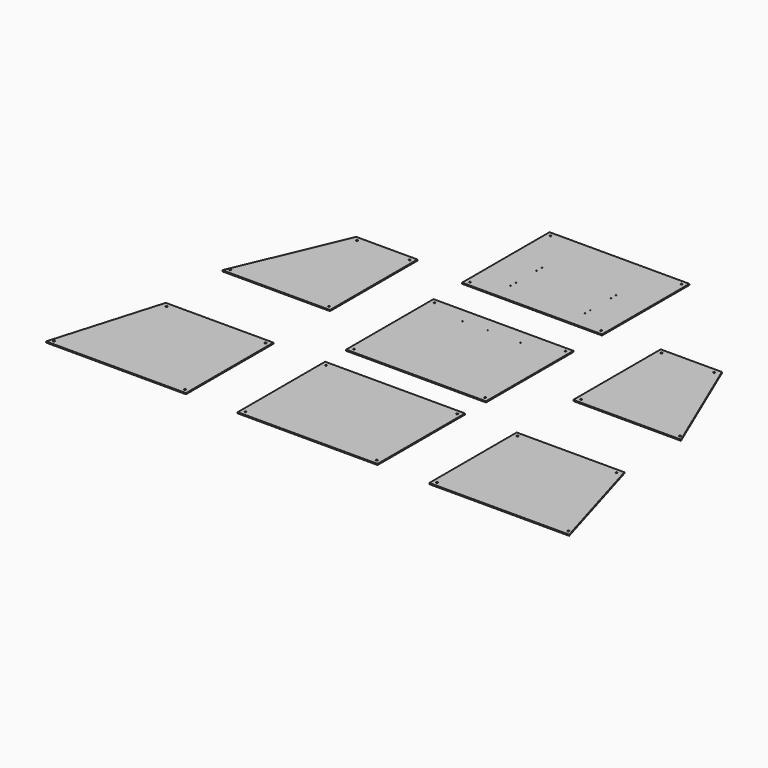
from build123d import *

# Parameters (mm, degrees)
F0_W     = 640
F0_H     = 500
F0_R     = 4
F1_DEPTH = 5
F2_R     = 4
F3_DEPTH = 5
F5_W     = 640
F5_H     = 500
F5_R     = 4
F5_R_2   = 2.05
F6_DEPTH = 5
F7_W     = 640
F7_H     = 500
F7_R     = 4
F7_R_2   = 2.05
F8_DEPTH = 5


with BuildPart() as f1:
    # F0 (on Top) → F1 (new body)
    with BuildSketch(Plane.XY):
        Rectangle(F0_W, F0_H)
        with Locations((-300, -230)):
            Circle(F0_R, mode=Mode.SUBTRACT)
        with Locations((300, -230)):
            Circle(F0_R, mode=Mode.SUBTRACT)
        with Locations((-300, 230)):
            Circle(F0_R, mode=Mode.SUBTRACT)
        with Locations((300, 230)):
            Circle(F0_R, mode=Mode.SUBTRACT)
    extrude(amount=F1_DEPTH)


with BuildPart() as f3:
    # F2 (on Top) → F3 (new body)
    with BuildSketch(Plane.XY):
        Polygon((-556.44248, -250), (-556.44248, 250), (-1048.94248, 250), (-1196.44248, -250), align=None)
        with Locations((-1176.44248, -230)):
            Circle(F2_R, mode=Mode.SUBTRACT)
        with Locations((-1028.94248, 230)):
            Circle(F2_R, mode=Mode.SUBTRACT)
        with Locations((-576.44248, -230)):
            Circle(F2_R, mode=Mode.SUBTRACT)
        with Locations((-576.44248, 230)):
            Circle(F2_R, mode=Mode.SUBTRACT)
        Polygon((-1048.94248, 573.430896), (-556.44248, 573.430896), (-556.44248, 1073.430896), (-836.44248, 1073.430896), align=None)
        with Locations((-1028.94248, 593.430896)):
            Circle(F2_R, mode=Mode.SUBTRACT)
        with Locations((-576.44248, 593.430896)):
            Circle(F2_R, mode=Mode.SUBTRACT)
        with Locations((-816.44248, 1053.430896)):
            Circle(F2_R, mode=Mode.SUBTRACT)
        with Locations((-576.44248, 1053.430896)):
            Circle(F2_R, mode=Mode.SUBTRACT)
    extrude(amount=F3_DEPTH)


with BuildPart() as f4_1:
    # F4: instance of F3
    add(f3.part.mirror(Plane.YZ))


with BuildPart() as f6:
    # F5 (on Top) → F6 (new body)
    with BuildSketch(Plane.XY):
        with Locations((0, 619.901973)):
            Rectangle(F5_W, F5_H)
        with Locations((-300, 389.901973)):
            Circle(F5_R, mode=Mode.SUBTRACT)
        with Locations((300, 389.901973)):
            Circle(F5_R, mode=Mode.SUBTRACT)
        with Locations((-300, 849.901973)):
            Circle(F5_R, mode=Mode.SUBTRACT)
        with Locations((-132.5, 801.401973)):
            Circle(F5_R_2, mode=Mode.SUBTRACT)
        with Locations((-17.5, 801.401973)):
            Circle(F5_R_2, mode=Mode.SUBTRACT)
        with Locations((132.5, 801.401973)):
            Circle(F5_R_2, mode=Mode.SUBTRACT)
        with Locations((300, 849.901973)):
            Circle(F5_R, mode=Mode.SUBTRACT)
    extrude(amount=F6_DEPTH)


with BuildPart() as f8:
    # F7 (on Top) → F8 (new body)
    with BuildSketch(Plane.XY):
        with Locations((0, 1283.270836)):
            Rectangle(F7_W, F7_H)
        with Locations((-300, 1053.270836)):
            Circle(F7_R, mode=Mode.SUBTRACT)
        with Locations((-170, 1123.770836)):
            Circle(F7_R_2, mode=Mode.SUBTRACT)
        with Locations((-170, 1153.770836)):
            Circle(F7_R_2, mode=Mode.SUBTRACT)
        with Locations((-170, 1271.770836)):
            Circle(F7_R_2, mode=Mode.SUBTRACT)
        with Locations((300, 1053.270836)):
            Circle(F7_R, mode=Mode.SUBTRACT)
        with Locations((170, 1123.770836)):
            Circle(F7_R_2, mode=Mode.SUBTRACT)
        with Locations((170, 1153.770836)):
            Circle(F7_R_2, mode=Mode.SUBTRACT)
        with Locations((170, 1271.770836)):
            Circle(F7_R_2, mode=Mode.SUBTRACT)
        with Locations((-170, 1301.770836)):
            Circle(F7_R_2, mode=Mode.SUBTRACT)
        with Locations((-300, 1513.270836)):
            Circle(F7_R, mode=Mode.SUBTRACT)
        with Locations((170, 1301.770836)):
            Circle(F7_R_2, mode=Mode.SUBTRACT)
        with Locations((300, 1513.270836)):
            Circle(F7_R, mode=Mode.SUBTRACT)
    extrude(amount=F8_DEPTH)


solid = Compound([f1.part, f3.part, f4_1.part, f6.part, f8.part])
